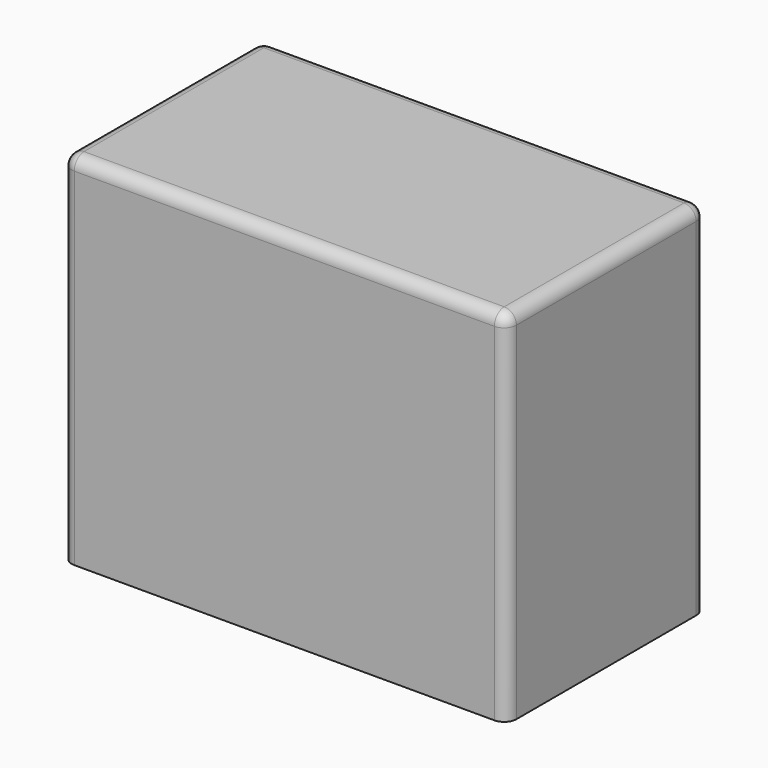
from build123d import *

# Parameters (mm, degrees)
SKETCH_W  = 18.2
SKETCH_H  = 10.2
PAD_DEPTH = 14.7
FILLET_R  = 0.5


with BuildPart() as part:
    # Sketch → Pad (new body)
    with BuildSketch(Plane.XY):
        with Locations((9.1, 5.1)):
            Rectangle(SKETCH_W, SKETCH_H)
    extrude(amount=PAD_DEPTH)

    # Fillet
    fillet_edges = [part.edges().sort_by_distance(p)[0] for p in [
        (0, 5.1, 14.7),
        (9.1, 0, 14.7),
        (9.1, 10.2, 14.7),
        (18.2, 5.1, 14.7),
        (18.2, 0, 7.35),
        (18.2, 10.2, 7.35),
        (0, 10.2, 7.35),
        (0, 0, 7.35),
    ]]
    fillet(fillet_edges, radius=FILLET_R)


solid = part.part
